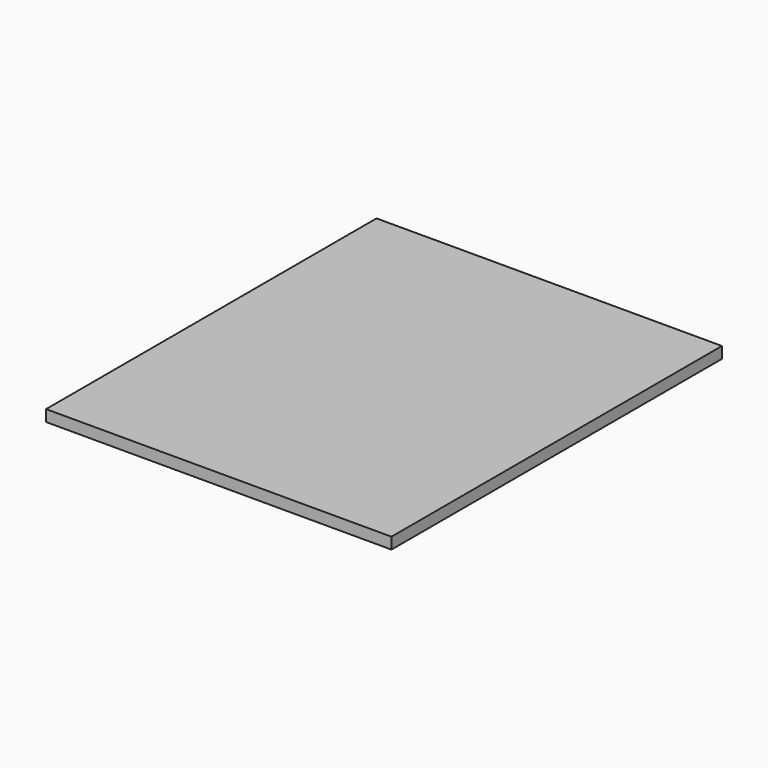
from build123d import *

# Parameters (mm, degrees)
SKETCH_W  = 48.5
SKETCH_H  = 58
PAD_DEPTH = 1.6


with BuildPart() as part:
    # Sketch → Pad (new body)
    with BuildSketch(Plane.XY):
        Rectangle(SKETCH_W, SKETCH_H)
    extrude(amount=PAD_DEPTH)


solid = part.part
